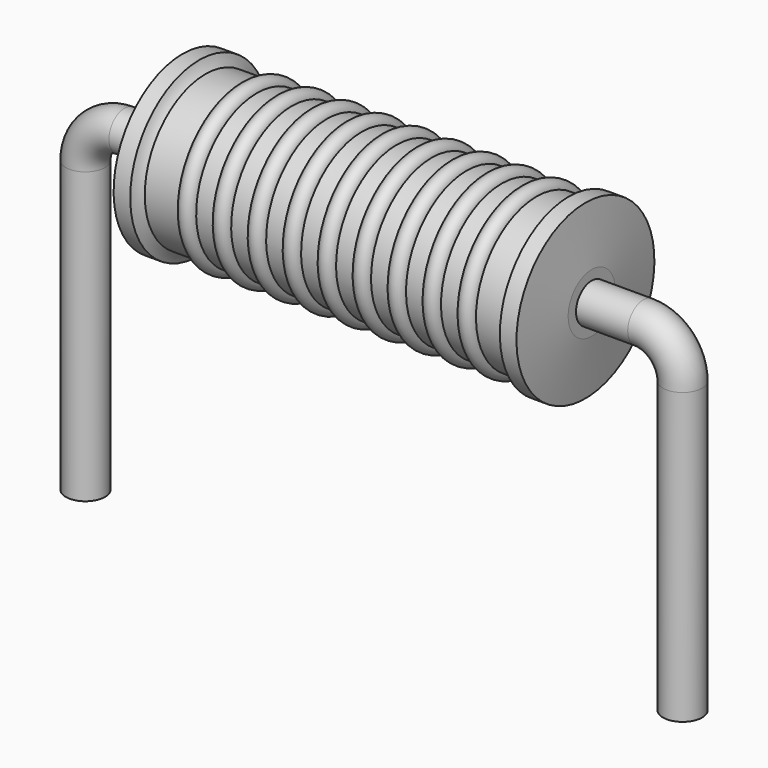
from build123d import *

# Parameters (mm, degrees)
SKETCH_R = 0.25


with BuildPart() as sweep_body:
    # Sweep: sweep along a path in Sketch001
    with BuildLine(Plane.XZ) as sweep_path:
        Line((0, -3), (0, 0.7))
        ThreePointArc((0, 0.7), (0.146448, 1.053555), (0.500005, 1.2))
        Line((0.500005, 1.2), (7.12, 1.2))
        ThreePointArc((7.12, 1.2), (7.473553, 1.053553), (7.62, 0.7))
        Line((7.62, 0.7), (7.62, -3))
    # Sketch → Sweep (sweep)
    with BuildSketch(Plane.XY.offset(-2)):
        Circle(SKETCH_R)
    sweep(path=sweep_path.line)


with BuildPart() as revolution:
    # Sketch002 → Revolution (revolve)
    with BuildSketch(Plane.XZ):
        with BuildLine():
            Line((1.2395, 2.3), (1.4515, 2.3))
            ThreePointArc((1.4515, 2.3), (1.484132, 2.229479), (1.531, 2.1675))
            Line((1.531, 2.1675), (6.089, 2.1675))
            ThreePointArc((6.089, 2.1675), (6.135868, 2.229479), (6.1685, 2.3))
            Line((6.1685, 2.3), (6.3805, 2.3))
            ThreePointArc((6.46, 1.575), (6.420564, 1.937534), (6.3805, 2.3))
            Line((6.46, 1.2), (6.46, 1.575))
            Line((1.16, 1.2), (6.46, 1.2))
            Line((1.16, 1.2), (1.16, 1.575))
            ThreePointArc((1.2395, 2.3), (1.199436, 1.937534), (1.16, 1.575))
        make_face()
    revolve(axis=Axis((1.16, 0, 1.2), (1, 0, 0)))


with BuildPart() as obj1:
    # Sketch003 → Revolution001 (revolve)
    with BuildSketch(Plane.XZ):
        with BuildLine():
            ThreePointArc((2.189316, 2.1463), (2.077737, 2.257879), (1.966158, 2.1463))
            Line((1.743, 2.1463), (1.966158, 2.1463))
            Line((1.743, 2.1463), (1.743, 1.9263))
            Line((1.743, 1.9263), (5.983, 1.9263))
            Line((5.983, 1.9263), (5.983, 2.1463))
            Line((5.759842, 2.1463), (5.983, 2.1463))
            ThreePointArc((5.759842, 2.1463), (5.648263, 2.257879), (5.536684, 2.1463))
            Line((5.313526, 2.1463), (5.536684, 2.1463))
            ThreePointArc((5.313526, 2.1463), (5.201947, 2.257879), (5.090368, 2.1463))
            Line((4.867211, 2.1463), (5.090368, 2.1463))
            ThreePointArc((4.867211, 2.1463), (4.755632, 2.257879), (4.644053, 2.1463))
            Line((4.420895, 2.1463), (4.644053, 2.1463))
            ThreePointArc((4.420895, 2.1463), (4.309316, 2.257879), (4.197737, 2.1463))
            Line((3.974579, 2.1463), (4.197737, 2.1463))
            ThreePointArc((3.974579, 2.1463), (3.863, 2.257879), (3.751421, 2.1463))
            Line((3.528263, 2.1463), (3.751421, 2.1463))
            ThreePointArc((3.528263, 2.1463), (3.416684, 2.257879), (3.305105, 2.1463))
            Line((3.081947, 2.1463), (3.305105, 2.1463))
            ThreePointArc((3.081947, 2.1463), (2.970368, 2.257879), (2.858789, 2.1463))
            Line((2.635632, 2.1463), (2.858789, 2.1463))
            ThreePointArc((2.635632, 2.1463), (2.524053, 2.257879), (2.412474, 2.1463))
            Line((2.189316, 2.1463), (2.412474, 2.1463))
        make_face()
    revolve(axis=Axis((1.2925, 0, 1.2), (1, 0, 0)))

    # obj1: union Sweep body, Revolution
    add(sweep_body.part)
    add(revolution.part)


solid = obj1.part
